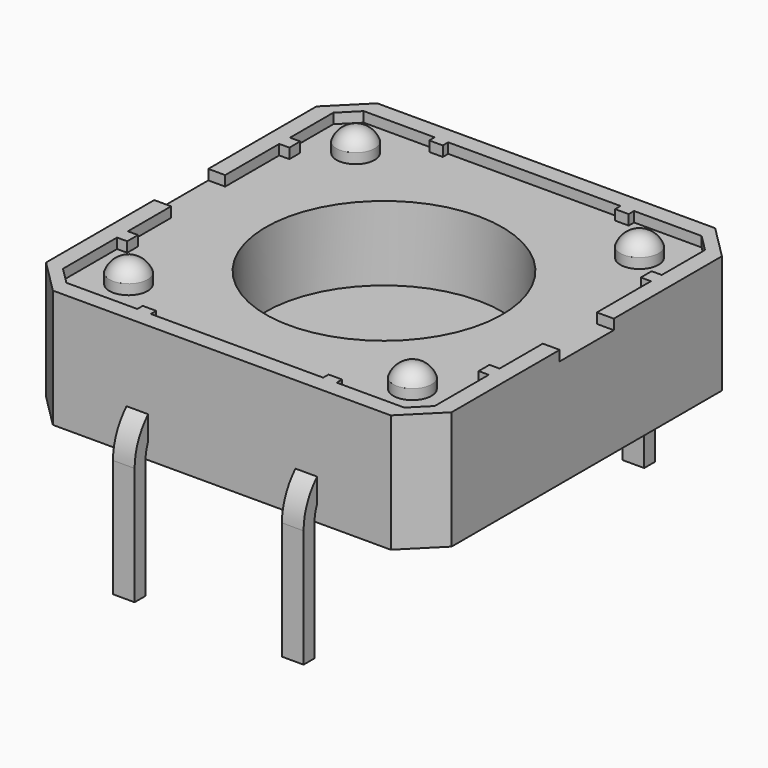
from build123d import *

# Parameters (mm, degrees)
SKETCH005_W               = 0.64
SKETCH005_H               = 0.4
SWEEP001_PLACEMENT_ANGLE  = 90
SKETCH010_W               = 0.64
SKETCH010_H               = 0.4
SWEEP002_PLACEMENT_ANGLE  = -90
SKETCH011_W               = 0.64
SKETCH011_H               = 0.4
SWEEP003_PLACEMENT_ANGLE  = -90
CYLINDER002_R             = 3.5
CYLINDER002_DEPTH         = 10
BOX024_W                  = 2
BOX024_H                  = 15
BOX024_DEPTH              = 1
CYLINDER014_R             = 0.6
CYLINDER014_DEPTH         = 0.2
SPHERE003_ANGLE           = 180
SPHERE003_ROLL_ANGLE      = 90
CYLINDER009_R             = 0.6
CYLINDER009_DEPTH         = 0.2
SPHERE_ANGLE              = 180
SPHERE_ROLL_ANGLE         = 90
CYLINDER010_R             = 0.6
CYLINDER010_DEPTH         = 0.2
SPHERE001_ANGLE           = 180
SPHERE001_ROLL_ANGLE      = 90
CYLINDER011_R             = 0.6
CYLINDER011_DEPTH         = 0.2
SPHERE002_ANGLE           = 180
SPHERE002_ROLL_ANGLE      = 90
CYLINDER004_R             = 0.565
CYLINDER004_DEPTH         = 5
CYLINDER005_R             = 0.565
CYLINDER005_DEPTH         = 5
CYLINDER006_R             = 0.565
CYLINDER006_DEPTH         = 5
CYLINDER007_R             = 0.565
CYLINDER007_DEPTH         = 5
BOX008_W                  = 0.4
BOX008_H                  = 1
BOX008_DEPTH              = 1
BOX008_PLACEMENT_ANGLE    = 90
BOX010_W                  = 0.4
BOX010_H                  = 1
BOX010_DEPTH              = 1
BOX010_PLACEMENT_ANGLE    = 90
BOX011_W                  = 0.4
BOX011_H                  = 1
BOX011_DEPTH              = 1
BOX011_PLACEMENT_ANGLE    = 90
BOX007_W                  = 0.4
BOX007_H                  = 1
BOX007_DEPTH              = 1
BOX007_PLACEMENT_ANGLE    = 90
BOX005_W                  = 0.4
BOX005_H                  = 1
BOX005_DEPTH              = 1
BOX002_W                  = 0.4
BOX002_H                  = 1
BOX002_DEPTH              = 1
BOX006_W                  = 0.4
BOX006_H                  = 1
BOX006_DEPTH              = 1
BOX009_W                  = 0.4
BOX009_H                  = 1
BOX009_DEPTH              = 1
BOX004_W                  = 11
BOX004_H                  = 11
BOX004_DEPTH              = 0.4
CHAMFER001_SIZE           = 0.5
BOX003_W                  = 12
BOX003_H                  = 12
BOX003_DEPTH              = 3.5
CHAMFER_SIZE              = 1
SKETCH003_W               = 0.64
SKETCH003_H               = 0.4
SWEEP_PLACEMENT_ANGLE     = 90
FUSION005_PLACEMENT_ANGLE = 90


with BuildPart() as sweep001:
    # Sweep001: sweep along a path in Sketch004
    with BuildLine(Plane.YZ) as sweep001_path:
        Line((0, 0), (0, 3.48702))
        ThreePointArc((0, 3.48702), (-0.443142, 4.556858), (-1.51298, 5))
        Line((-1.51298, 5), (-2, 5))
    # Sketch005 → Sweep001 (sweep)
    with BuildSketch(Plane.XY):
        Rectangle(SKETCH005_W, SKETCH005_H)
    sweep(path=sweep001_path.line)


with BuildPart() as sweep001_1:
    # Sweep001 placement: moved
    add(sweep001.part.moved(Location((-6.3, -2.5, -3.5))).rotate(Axis((-6.3, -2.5, -3.5), (0, 0, 1)), SWEEP001_PLACEMENT_ANGLE))


with BuildPart() as sweep002:
    # Sweep002: sweep along a path in Sketch006
    with BuildLine(Plane.YZ) as sweep002_path:
        Line((0, 0), (0, 3.48702))
        ThreePointArc((0, 3.48702), (-0.443142, 4.556858), (-1.51298, 5))
        Line((-1.51298, 5), (-2, 5))
    # Sketch010 → Sweep002 (sweep)
    with BuildSketch(Plane.XY):
        Rectangle(SKETCH010_W, SKETCH010_H)
    sweep(path=sweep002_path.line)


with BuildPart() as sweep002_1:
    # Sweep002 placement: moved
    add(sweep002.part.moved(Location((6.3, 2.5, -3.5))).rotate(Axis((6.3, 2.5, -3.5), (0, 0, 1)), SWEEP002_PLACEMENT_ANGLE))


with BuildPart() as sweep003:
    # Sweep003: sweep along a path in Sketch009
    with BuildLine(Plane.YZ) as sweep003_path:
        Line((0, 0), (0, 3.48702))
        ThreePointArc((0, 3.48702), (-0.443142, 4.556858), (-1.51298, 5))
        Line((-1.51298, 5), (-2, 5))
    # Sketch011 → Sweep003 (sweep)
    with BuildSketch(Plane.XY):
        Rectangle(SKETCH011_W, SKETCH011_H)
    sweep(path=sweep003_path.line)


with BuildPart() as sweep003_1:
    # Sweep003 placement: moved
    add(sweep003.part.moved(Location((6.3, -2.5, -3.5))).rotate(Axis((6.3, -2.5, -3.5), (0, 0, 1)), SWEEP003_PLACEMENT_ANGLE))


with BuildPart() as cilindro014:
    # Cylinder002 → Cylinder002 (new body)
    with BuildSketch(Plane.XY.offset(1)):
        Circle(CYLINDER002_R)
    extrude(amount=CYLINDER002_DEPTH)


with BuildPart() as cubo004:
    # Box024 → Box024 (new body)
    with BuildSketch(Plane(origin=(-1, -8, 3.2), x_dir=(1, 0, 0), z_dir=(0, 0, 1))):
        with Locations((1, 7.5)):
            Rectangle(BOX024_W, BOX024_H)
    extrude(amount=BOX024_DEPTH)


with BuildPart() as cilindro010:
    # Cylinder014 → Cylinder014 (new body)
    with BuildSketch(Plane.XY):
        Circle(CYLINDER014_R)
    extrude(amount=CYLINDER014_DEPTH)


with BuildPart() as esfera:
    # Sphere003 → Sphere003 (revolve)
    with BuildSketch(Plane.XZ):
        with BuildLine():
            ThreePointArc((0, -0.6), (0.6, 0), (0, 0.6))
            Line((0, 0.6), (0, -0.6))
        make_face()
    revolve(axis=Axis((0, 0, 0), (0, 0, 1)), revolution_arc=SPHERE003_ANGLE)


with BuildPart() as esfera_1:
    # Sphere003 roll: moved
    add(esfera.part.rotate(Axis((0, 0, 0), (1, 0, 0)), SPHERE003_ROLL_ANGLE))


with BuildPart() as esfera_2:
    # Sphere003 placement: moved
    add(esfera_1.part)

    # Cut031: cut Cilindro010
    add(cilindro010.part, mode=Mode.SUBTRACT)


with BuildPart() as esfera_3:
    # Cut031 placement: moved
    add(esfera_2.part.moved(Location((-4.2, 4.2, 3.3))))


with BuildPart() as cilindro013:
    # Cylinder009 → Cylinder009 (new body)
    with BuildSketch(Plane.XY):
        Circle(CYLINDER009_R)
    extrude(amount=CYLINDER009_DEPTH)


with BuildPart() as esfera003:
    # Sphere → Sphere (revolve)
    with BuildSketch(Plane.XZ):
        with BuildLine():
            ThreePointArc((0, -0.6), (0.6, 0), (0, 0.6))
            Line((0, 0.6), (0, -0.6))
        make_face()
    revolve(axis=Axis((0, 0, 0), (0, 0, 1)), revolution_arc=SPHERE_ANGLE)


with BuildPart() as esfera003_1:
    # Sphere roll: moved
    add(esfera003.part.rotate(Axis((0, 0, 0), (1, 0, 0)), SPHERE_ROLL_ANGLE))


with BuildPart() as esfera003_2:
    # Sphere placement: moved
    add(esfera003_1.part)

    # Cut024: cut Cilindro013
    add(cilindro013.part, mode=Mode.SUBTRACT)


with BuildPart() as esfera003_3:
    # Cut024 placement: moved
    add(esfera003_2.part.moved(Location((-4.2, -4.2, 3.3))))


with BuildPart() as cilindro012:
    # Cylinder010 → Cylinder010 (new body)
    with BuildSketch(Plane.XY):
        Circle(CYLINDER010_R)
    extrude(amount=CYLINDER010_DEPTH)


with BuildPart() as esfera002:
    # Sphere001 → Sphere001 (revolve)
    with BuildSketch(Plane.XZ):
        with BuildLine():
            ThreePointArc((0, -0.6), (0.6, 0), (0, 0.6))
            Line((0, 0.6), (0, -0.6))
        make_face()
    revolve(axis=Axis((0, 0, 0), (0, 0, 1)), revolution_arc=SPHERE001_ANGLE)


with BuildPart() as esfera002_1:
    # Sphere001 roll: moved
    add(esfera002.part.rotate(Axis((0, 0, 0), (1, 0, 0)), SPHERE001_ROLL_ANGLE))


with BuildPart() as esfera002_2:
    # Sphere001 placement: moved
    add(esfera002_1.part)

    # Cut025: cut Cilindro012
    add(cilindro012.part, mode=Mode.SUBTRACT)


with BuildPart() as esfera002_3:
    # Cut025 placement: moved
    add(esfera002_2.part.moved(Location((4.2, -4.2, 3.3))))


with BuildPart() as cilindro011:
    # Cylinder011 → Cylinder011 (new body)
    with BuildSketch(Plane.XY):
        Circle(CYLINDER011_R)
    extrude(amount=CYLINDER011_DEPTH)


with BuildPart() as esfera001:
    # Sphere002 → Sphere002 (revolve)
    with BuildSketch(Plane.XZ):
        with BuildLine():
            ThreePointArc((0, -0.6), (0.6, 0), (0, 0.6))
            Line((0, 0.6), (0, -0.6))
        make_face()
    revolve(axis=Axis((0, 0, 0), (0, 0, 1)), revolution_arc=SPHERE002_ANGLE)


with BuildPart() as esfera001_1:
    # Sphere002 roll: moved
    add(esfera001.part.rotate(Axis((0, 0, 0), (1, 0, 0)), SPHERE002_ROLL_ANGLE))


with BuildPart() as esfera001_2:
    # Sphere002 placement: moved
    add(esfera001_1.part)

    # Cut026: cut Cilindro011
    add(cilindro011.part, mode=Mode.SUBTRACT)


with BuildPart() as esfera001_3:
    # Cut026 placement: moved
    add(esfera001_2.part.moved(Location((4.2, 4.2, 3.3))))


with BuildPart() as cilindro005:
    # Cylinder004 → Cylinder004 (new body)
    with BuildSketch(Plane(origin=(4.2, -4.2, 0), x_dir=(1, 0, 0), z_dir=(0, 0, 1))):
        Circle(CYLINDER004_R)
    extrude(amount=CYLINDER004_DEPTH)


with BuildPart() as cilindro015:
    # Cylinder005 → Cylinder005 (new body)
    with BuildSketch(Plane(origin=(-4.2, -4.2, 0), x_dir=(1, 0, 0), z_dir=(0, 0, 1))):
        Circle(CYLINDER005_R)
    extrude(amount=CYLINDER005_DEPTH)


with BuildPart() as cilindro003:
    # Cylinder006 → Cylinder006 (new body)
    with BuildSketch(Plane(origin=(4.2, 4.2, 0), x_dir=(1, 0, 0), z_dir=(0, 0, 1))):
        Circle(CYLINDER006_R)
    extrude(amount=CYLINDER006_DEPTH)


with BuildPart() as cilindro002:
    # Cylinder007 → Cylinder007 (new body)
    with BuildSketch(Plane(origin=(-4.2, 4.2, 0), x_dir=(1, 0, 0), z_dir=(0, 0, 1))):
        Circle(CYLINDER007_R)
    extrude(amount=CYLINDER007_DEPTH)


with BuildPart() as obj1:
    # Box008 → Box008 (new body)
    with BuildSketch(Plane.XY):
        with Locations((0.2, 0.5)):
            Rectangle(BOX008_W, BOX008_H)
    extrude(amount=BOX008_DEPTH)


with BuildPart() as obj1_1:
    # Box008 placement: moved
    add(obj1.part.moved(Location((6.3, -3, 3))).rotate(Axis((6.3, -3, 3), (0, 0, 1)), BOX008_PLACEMENT_ANGLE))


with BuildPart() as obj2:
    # Box010 → Box010 (new body)
    with BuildSketch(Plane.XY):
        with Locations((0.2, 0.5)):
            Rectangle(BOX010_W, BOX010_H)
    extrude(amount=BOX010_DEPTH)


with BuildPart() as obj2_1:
    # Box010 placement: moved
    add(obj2.part.moved(Location((6.3, 2.5, 3))).rotate(Axis((6.3, 2.5, 3), (0, 0, 1)), BOX010_PLACEMENT_ANGLE))


with BuildPart() as obj3:
    # Box011 → Box011 (new body)
    with BuildSketch(Plane.XY):
        with Locations((0.2, 0.5)):
            Rectangle(BOX011_W, BOX011_H)
    extrude(amount=BOX011_DEPTH)


with BuildPart() as obj3_1:
    # Box011 placement: moved
    add(obj3.part.moved(Location((-5.3, -3, 3))).rotate(Axis((-5.3, -3, 3), (0, 0, 1)), BOX011_PLACEMENT_ANGLE))


with BuildPart() as obj4:
    # Box007 → Box007 (new body)
    with BuildSketch(Plane.XY):
        with Locations((0.2, 0.5)):
            Rectangle(BOX007_W, BOX007_H)
    extrude(amount=BOX007_DEPTH)


with BuildPart() as obj4_1:
    # Box007 placement: moved
    add(obj4.part.moved(Location((-5.3, 2.5, 3))).rotate(Axis((-5.3, 2.5, 3), (0, 0, 1)), BOX007_PLACEMENT_ANGLE))


with BuildPart() as obj5:
    # Box005 → Box005 (new body)
    with BuildSketch(Plane(origin=(3, -6.2, 3), x_dir=(1, 0, 0), z_dir=(0, 0, 1))):
        with Locations((0.2, 0.5)):
            Rectangle(BOX005_W, BOX005_H)
    extrude(amount=BOX005_DEPTH)


with BuildPart() as obj6:
    # Box002 → Box002 (new body)
    with BuildSketch(Plane(origin=(-3, -6.2, 3), x_dir=(1, 0, 0), z_dir=(0, 0, 1))):
        with Locations((0.2, 0.5)):
            Rectangle(BOX002_W, BOX002_H)
    extrude(amount=BOX002_DEPTH)


with BuildPart() as obj7:
    # Box006 → Box006 (new body)
    with BuildSketch(Plane(origin=(3, 5.2, 3), x_dir=(1, 0, 0), z_dir=(0, 0, 1))):
        with Locations((0.2, 0.5)):
            Rectangle(BOX006_W, BOX006_H)
    extrude(amount=BOX006_DEPTH)


with BuildPart() as obj8:
    # Box009 → Box009 (new body)
    with BuildSketch(Plane(origin=(-3, 5.2, 3), x_dir=(1, 0, 0), z_dir=(0, 0, 1))):
        with Locations((0.2, 0.5)):
            Rectangle(BOX009_W, BOX009_H)
    extrude(amount=BOX009_DEPTH)


with BuildPart() as obj9:
    # Box004 → Box004 (new body)
    with BuildSketch(Plane(origin=(-5.5, -5.5, 3.6), x_dir=(1, 0, 0), z_dir=(0, 0, 1))):
        with Locations((5.5, 5.5)):
            Rectangle(BOX004_W, BOX004_H)
    extrude(amount=BOX004_DEPTH)

    # Chamfer001
    chamfer001_edges = [obj9.edges().sort_by_distance(p)[0] for p in [
        (-5.5, -5.5, 3.8),
        (-5.5, 5.5, 3.8),
        (5.5, -5.5, 3.8),
        (5.5, 5.5, 3.8),
    ]]
    chamfer(chamfer001_edges, length=CHAMFER001_SIZE)


with BuildPart() as obj9_1:
    # Chamfer001 placement: moved
    add(obj9.part.moved(Location((0, 0, -0.4))))

    # Cut020: cut obj8
    add(obj8.part, mode=Mode.SUBTRACT)

    # Cut019: cut obj7
    add(obj7.part, mode=Mode.SUBTRACT)

    # Cut018: cut obj6
    add(obj6.part, mode=Mode.SUBTRACT)

    # Cut017: cut obj5
    add(obj5.part, mode=Mode.SUBTRACT)

    # Cut016: cut obj4
    add(obj4_1.part, mode=Mode.SUBTRACT)

    # Cut013: cut obj3
    add(obj3_1.part, mode=Mode.SUBTRACT)

    # Cut014: cut obj2
    add(obj2_1.part, mode=Mode.SUBTRACT)

    # Cut015: cut obj1
    add(obj1_1.part, mode=Mode.SUBTRACT)

    # Cut007: cut Cilindro002
    add(cilindro002.part, mode=Mode.SUBTRACT)

    # Cut008: cut Cilindro003
    add(cilindro003.part, mode=Mode.SUBTRACT)

    # Cut012: cut Cilindro015
    add(cilindro015.part, mode=Mode.SUBTRACT)

    # Cut011: cut Cilindro005
    add(cilindro005.part, mode=Mode.SUBTRACT)


with BuildPart() as cut033:
    # Box003 → Box003 (new body)
    with BuildSketch(Plane.XY):
        with Locations((6, 6)):
            Rectangle(BOX003_W, BOX003_H)
    extrude(amount=BOX003_DEPTH)

    # Chamfer
    chamfer_edges = [cut033.edges().sort_by_distance(p)[0] for p in [
        (0, 0, 1.75),
        (0, 12, 1.75),
        (12, 0, 1.75),
        (12, 12, 1.75),
    ]]
    chamfer(chamfer_edges, length=CHAMFER_SIZE)


with BuildPart() as cut033_1:
    # Chamfer placement: moved
    add(cut033.part.moved(Location((-6, -6, 0))))

    # Cut030: cut obj9
    add(obj9_1.part, mode=Mode.SUBTRACT)

    # Fusion004: union esfera, esfera003, esfera002, esfera001
    add(esfera_3.part)
    add(esfera003_3.part)
    add(esfera002_3.part)
    add(esfera001_3.part)

    # Cut035: cut Cubo004
    add(cubo004.part, mode=Mode.SUBTRACT)

    # Cut033: cut Cilindro014
    add(cilindro014.part, mode=Mode.SUBTRACT)


with BuildPart() as fusion005:
    # Sweep: sweep along a path in Sketch002
    with BuildLine(Plane.YZ) as sweep_path:
        Line((0, 0), (0, 3.48702))
        ThreePointArc((0, 3.48702), (-0.443142, 4.556858), (-1.51298, 5))
        Line((-1.51298, 5), (-2, 5))
    # Sketch003 → Sweep (sweep)
    with BuildSketch(Plane.XY):
        Rectangle(SKETCH003_W, SKETCH003_H)
    sweep(path=sweep_path.line)


with BuildPart() as fusion005_1:
    # Sweep placement: moved
    add(fusion005.part.moved(Location((-6.3, 2.5, -3.5))).rotate(Axis((-6.3, 2.5, -3.5), (0, 0, 1)), SWEEP_PLACEMENT_ANGLE))

    # Fusion005: union Sweep001, Sweep002, Sweep003, Cut033
    add(sweep001_1.part)
    add(sweep002_1.part)
    add(sweep003_1.part)
    add(cut033_1.part)


with BuildPart() as fusion005_2:
    # Fusion005 placement: moved
    add(fusion005_1.part.moved(Location((0, 1.7, 1.6))).rotate(Axis((0, 1.7, 1.6), (0, 0, 1)), FUSION005_PLACEMENT_ANGLE))


solid = fusion005_2.part
